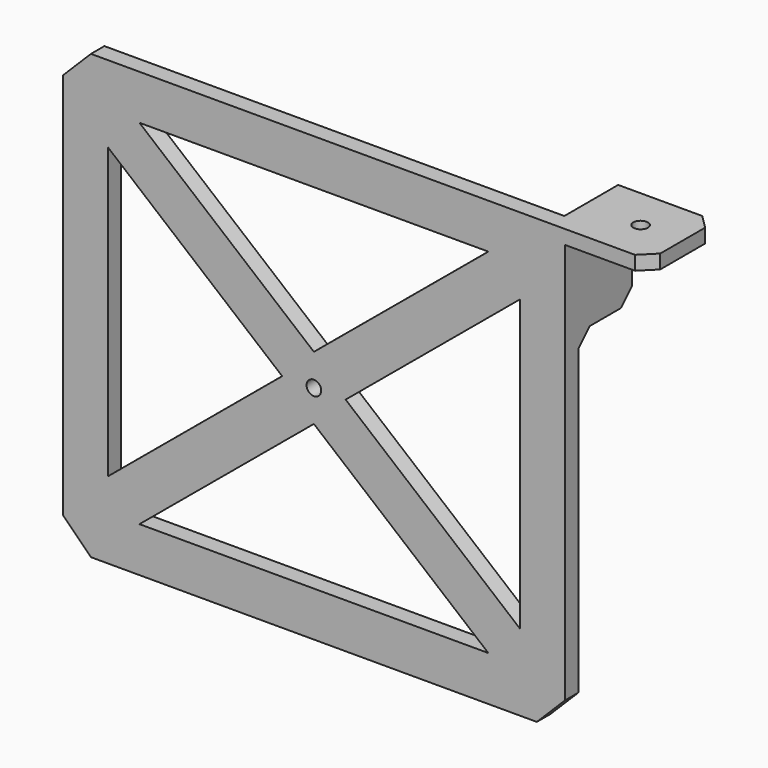
from build123d import *

# Parameters (mm, degrees)
SKETCH_W        = 179
SKETCH_H        = 158
SKETCH_R        = 2.6
PAD_DEPTH       = 6
SKETCH001_W     = 5
SKETCH001_H     = 30
PAD001_DEPTH    = 30
SKETCH002_W     = 5
SKETCH002_H     = 35
PAD002_DEPTH    = 24
SKETCH003_R     = 2.6
POCKET_DEPTH    = 7
CHAMFER_SIZE    = 5
CHAMFER001_SIZE = 5
CHAMFER002_SIZE = 5
CHAMFER003_SIZE = 10
CHAMFER004_SIZE = 10
CHAMFER005_SIZE = 10


with BuildPart() as part:
    # Sketch → Pad (new body)
    with BuildSketch(Plane.XZ):
        with Locations((89.5, -79)):
            Rectangle(SKETCH_W, SKETCH_H)
        with Locations((89.5, -79)):
            Circle(SKETCH_R, mode=Mode.SUBTRACT)
        Polygon((16, -27.3), (16, -130.7), (78.185, -79), align=None, mode=Mode.SUBTRACT)
        Polygon((27.3, -142), (151.7, -142), (89.5, -90.315), align=None, mode=Mode.SUBTRACT)
        Polygon((163, -130.7), (163, -27.3), (100.815, -79), align=None, mode=Mode.SUBTRACT)
        Polygon((151.7, -16), (27.3, -16), (89.5, -67.685), align=None, mode=Mode.SUBTRACT)
    extrude(amount=-PAD_DEPTH)

    # Sketch001 (on Face3 of Pad) → Pad001 (join)
    with BuildSketch(Plane(origin=(179, 0, 0), x_dir=(0, 0, 1), z_dir=(1, 0, 0))):
        with Locations((-2.5, -15)):
            Rectangle(SKETCH001_W, SKETCH001_H)
    extrude(amount=PAD001_DEPTH)

    # Sketch002 (on Face3 of Pad001) → Pad002 (join)
    with BuildSketch(Plane(origin=(0, 6, 0), x_dir=(1, 0, 0), z_dir=(0, 1, 0))):
        with Locations((176.5, 17.5)):
            Rectangle(SKETCH002_W, SKETCH002_H)
    extrude(amount=PAD002_DEPTH)

    # Sketch003 (on Face22 of Pad002) → Pocket (cut)
    with BuildSketch(Plane(origin=(0, 0, 0), x_dir=(-1, 0, 0), z_dir=(0, 0, 1))):
        with Locations((-194, -15)):
            Circle(SKETCH003_R)
    extrude(amount=-POCKET_DEPTH, mode=Mode.SUBTRACT)

    # Chamfer
    chamfer_edges = [part.edges().sort_by_distance(p)[0] for p in [
        (209, 30, -2.5),
        (209, 0, -2.5),
    ]]
    chamfer(chamfer_edges, length=CHAMFER_SIZE)

    # Chamfer001
    chamfer001_edges = [part.edges().sort_by_distance(p)[0] for p in [
        (176.5, 30, -35),
    ]]
    chamfer(chamfer001_edges, length=CHAMFER001_SIZE)

    # Chamfer002
    chamfer002_edges = [part.edges().sort_by_distance(p)[0] for p in [
        (176.5, 6, -35),
    ]]
    chamfer(chamfer002_edges, length=CHAMFER002_SIZE)

    # Chamfer003
    chamfer003_edges = [part.edges().sort_by_distance(p)[0] for p in [
        (179, 3, -158),
    ]]
    chamfer(chamfer003_edges, length=CHAMFER003_SIZE)

    # Chamfer004
    chamfer004_edges = [part.edges().sort_by_distance(p)[0] for p in [
        (0, 3, -158),
    ]]
    chamfer(chamfer004_edges, length=CHAMFER004_SIZE)

    # Chamfer005
    chamfer005_edges = [part.edges().sort_by_distance(p)[0] for p in [
        (0, 3, 0),
    ]]
    chamfer(chamfer005_edges, length=CHAMFER005_SIZE)


solid = part.part
